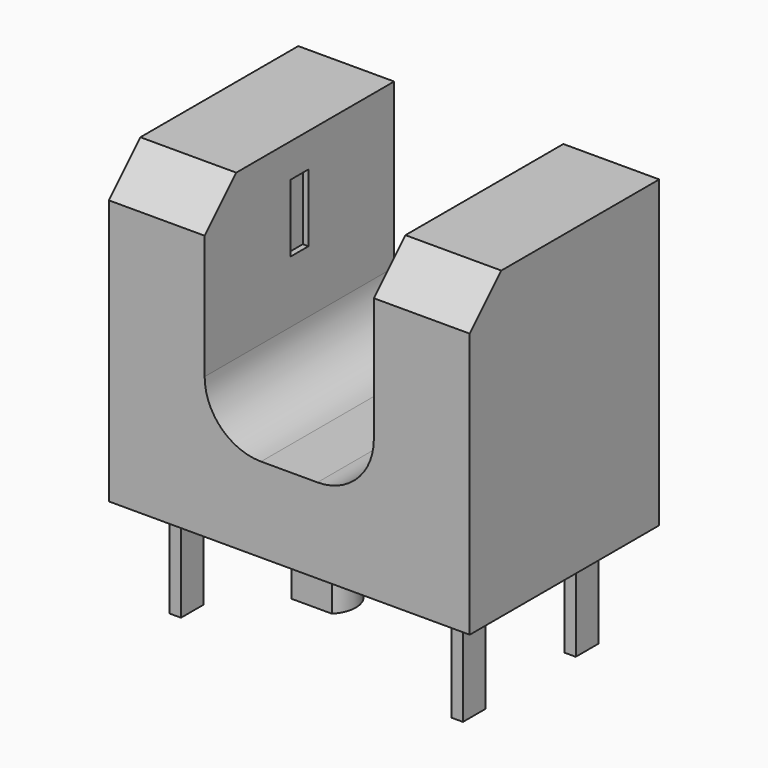
from build123d import *

# Parameters (mm, degrees)
F0_W      = 6.4
F0_H      = 4.2
F1_DEPTH  = 5.4
F3_DEPTH  = 4.2
F4_SIZE   = 0.7
F5_W      = 0.4
F5_H      = 1.2
F6_DEPTH  = 1.6
F8_DEPTH  = 0.8
F9_W      = 0.2
F9_H      = 0.5
F10_DEPTH = 1.8


with BuildPart() as f1:
    # F0 (on Top) → F1 (new body)
    with BuildSketch(Plane.XY):
        Rectangle(F0_W, F0_H)
    extrude(amount=F1_DEPTH)

    # F2 (on face) → F3 (cut, through all)
    with BuildSketch(Plane.XZ.offset(2.1)):
        with BuildLine():
            Line((1.5, 2.5), (1.5, 5.4))
            Line((1.5, 5.4), (-1.5, 5.4))
            Line((-1.5, 5.4), (-1.5, 2.5))
            ThreePointArc((-1.5, 2.5), (-1.2071067812, 1.7928932188), (-0.5, 1.5))
            Line((-0.5, 1.5), (0.5, 1.5))
            ThreePointArc((0.5, 1.5), (1.2071067812, 1.7928932188), (1.5, 2.5))
        make_face()
    extrude(amount=-F3_DEPTH, mode=Mode.SUBTRACT)

    # F4
    f4_edges = [f1.edges().sort_by_distance(p)[0] for p in [
        (-2.35, -2.1, 5.4),
        (2.35, -2.1, 5.4),
    ]]
    chamfer(f4_edges, length=F4_SIZE)

    # F5 (on Right) → F6 (cut, symmetric)
    with BuildSketch(Plane.YZ):
        with Locations((0, 4.2)):
            Rectangle(F5_W, F5_H)
    extrude(amount=F6_DEPTH, both=True, mode=Mode.SUBTRACT)

    # F7 (on face) → F8 (join)
    with BuildSketch(Plane(origin=(0, 0, 0), x_dir=(1, 0, 0), z_dir=(0, 0, -1))):
        with BuildLine():
            Line((0.3570714214, 1.6), (-0.3570714214, 1.6))
            ThreePointArc((-0.3570714214, 1.6), (0, 0.75), (0.3570714214, 1.6))
        make_face()
        with BuildLine():
            Line((-0.6062177826, -1.6), (0.6062177826, -1.6))
            ThreePointArc((0.6062177826, -1.6), (0, -0.55), (-0.6062177826, -1.6))
        make_face()
    extrude(amount=F8_DEPTH)

    # F9 (on face) → F10 (join)
    with BuildSketch(Plane(origin=(0, 0, 0), x_dir=(1, 0, 0), z_dir=(0, 0, -1))):
        with Locations((-2.5, 1.25)):
            Rectangle(F9_W, F9_H)
        with Locations((-2.5, -1.25)):
            Rectangle(F9_W, F9_H)
        with Locations((2.5, 1.25)):
            Rectangle(F9_W, F9_H)
        with Locations((2.5, -1.25)):
            Rectangle(F9_W, F9_H)
    extrude(amount=F10_DEPTH)


solid = f1.part
